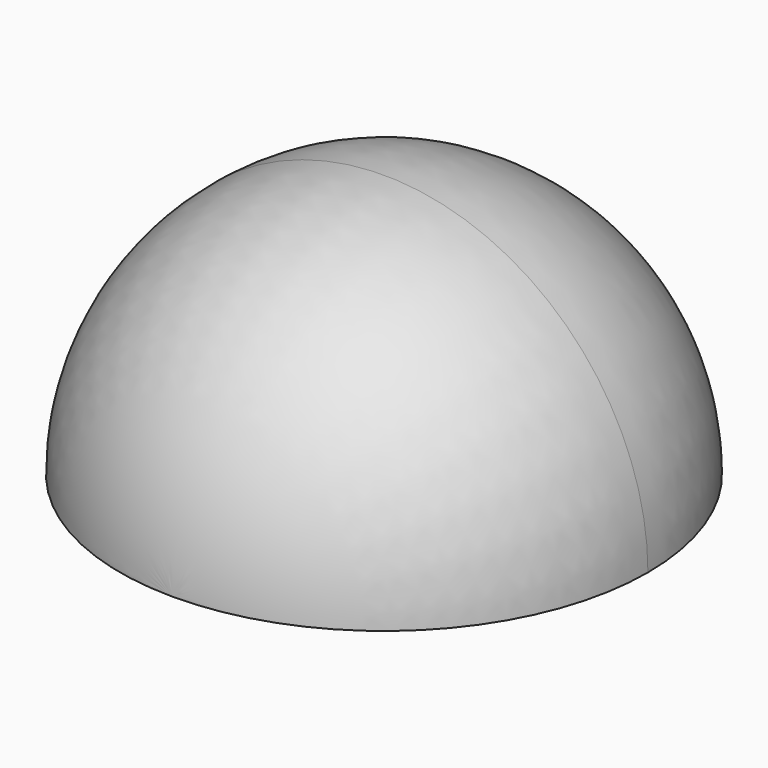
from build123d import *

# Parameters (mm, degrees)
F1_ANGLE = 180


with BuildPart() as f1:
    # F0 (on Top) → F1 (revolve)
    with BuildSketch(Plane.XY):
        with BuildLine():
            ThreePointArc((0, -39.6875), (28.0633, -28.0633), (39.6875, 0))
            ThreePointArc((39.6875, 0), (28.0633, 28.0633), (0, 39.6875))
            Line((0, 39.6875), (0, -39.6875))
        make_face()
    revolve(axis=Axis((0, 0, 0), (0, -1, 0)), revolution_arc=F1_ANGLE)


solid = f1.part
